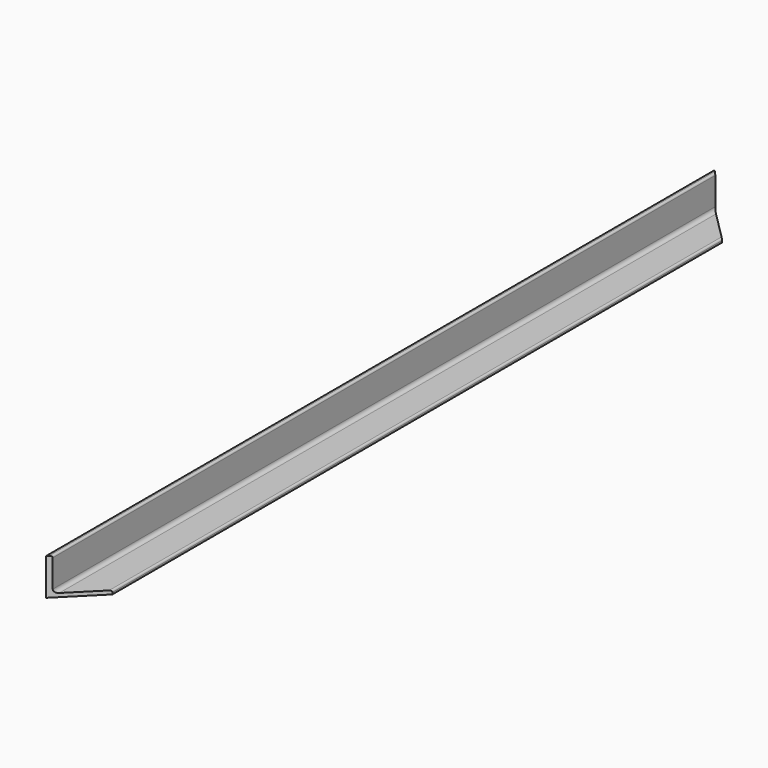
from build123d import *

# Parameters (mm, degrees)
F1_DEPTH = 340
F3_DEPTH = 30.001


with BuildPart() as f1:
    # F0 (on Front) → F1 (new body, symmetric)
    with BuildSketch(Plane.XZ):
        with BuildLine():
            Line((0, 3), (0, 0))
            Line((0, 0), (3, 0))
            Line((3, 0), (30, 0))
            Line((30, 0), (30, 1.5))
            ThreePointArc((30, 1.5), (29.5606601718, 2.5606601718), (28.5, 3))
            Line((28.5, 3), (6, 3))
            ThreePointArc((6, 3), (3.8786796564, 3.8786796564), (3, 6))
            Line((3, 6), (3, 28.5))
            ThreePointArc((3, 28.5), (2.5606601718, 29.5606601718), (1.5, 30))
            Line((1.5, 30), (0, 30))
            Line((0, 30), (0, 3))
        make_face()
    extrude(amount=F1_DEPTH, both=True)

    # F2 (on face) → F3 (cut, through all)
    with BuildSketch(Plane(origin=(0, 0, 0), x_dir=(1, 0, 0), z_dir=(0, 0, -1))):
        Polygon((30, -310), (0, -340), (30, -340), align=None)
        Polygon((30, 340), (0, 340), (30, 310), align=None)
    extrude(amount=-F3_DEPTH, mode=Mode.SUBTRACT)


solid = f1.part
